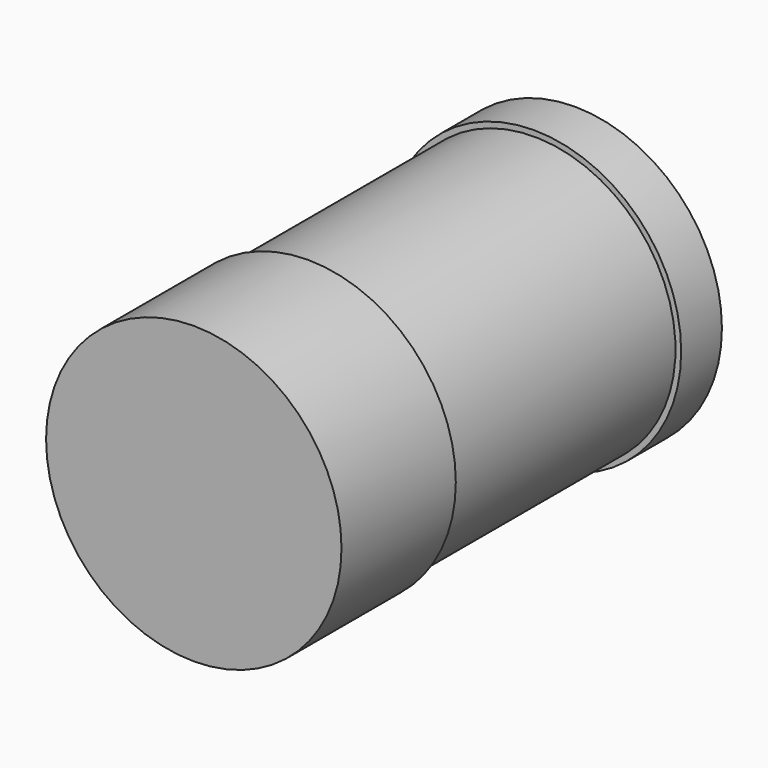
from build123d import *

# Parameters (mm, degrees)
F1_DEPTH = 25.25
F2_R     = 25
F3_DEPTH = 49.9
F4_R     = 26
F5_DEPTH = 9
F6_R     = 7.45
F7_DEPTH = 10


with BuildPart() as f1:
    # F0 (on Front) → F1 (new body)
    with BuildSketch(Plane.XZ):
        with BuildLine():
            Line((0, 0), (26.1, 0))
            ThreePointArc((26.1, 0), (0, 26.1), (-26.1, 0))
            Line((-26.1, 0), (0, 0))
        make_face()
        with BuildLine():
            ThreePointArc((-26.1, 0), (0, -26.1), (26.1, 0))
            Line((26.1, 0), (0, 0))
            Line((0, 0), (-26.1, 0))
        make_face()
    extrude(amount=-F1_DEPTH)

    # F2 (on face) → F3 (join)
    with BuildSketch(Plane(origin=(0, 25.25, 0), x_dir=(-1, 0, 0), z_dir=(0, 1, 0))):
        Circle(F2_R)
    extrude(amount=F3_DEPTH)

    # F4 (on face) → F5 (join)
    with BuildSketch(Plane(origin=(0, 75.15, 0), x_dir=(-1, 0, 0), z_dir=(0, 1, 0))):
        Circle(F4_R)
    extrude(amount=F5_DEPTH)

    # F6 (on face) → F7 (join)
    with BuildSketch(Plane(origin=(0, 84.15, 0), x_dir=(-1, 0, 0), z_dir=(0, 1, 0))):
        Circle(F6_R)
    extrude(amount=F7_DEPTH)


solid = f1.part
